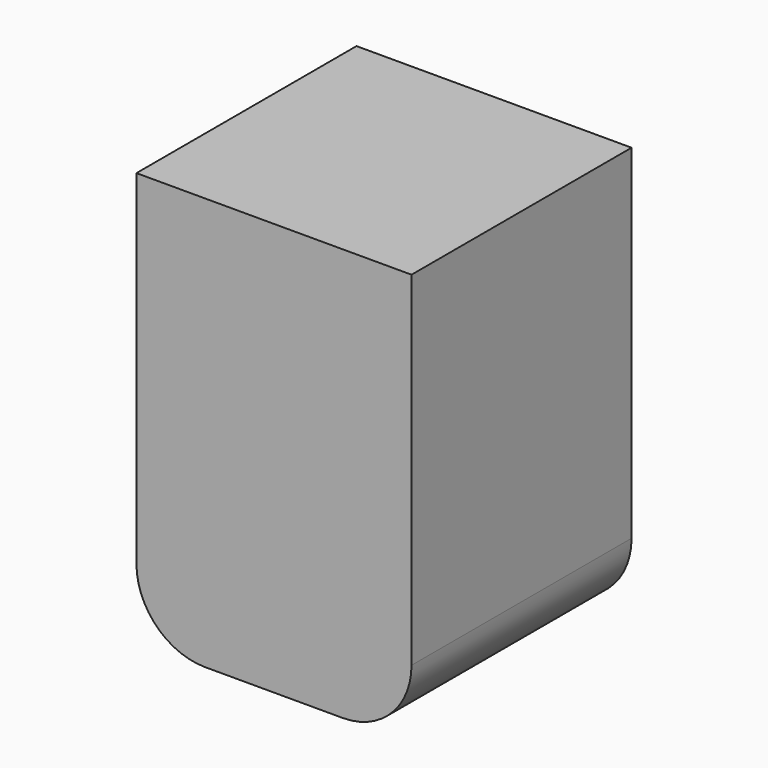
from build123d import *

# Parameters (mm, degrees)
F0_W     = 50.8
F0_H     = 76.2
F1_DEPTH = 50.8
F2_R     = 12.7


with BuildPart() as f1:
    # F0 (on Front) → F1 (new body)
    with BuildSketch(Plane.XZ):
        Rectangle(F0_W, F0_H)
    extrude(amount=F1_DEPTH)

    # F2
    f2_edges = [f1.edges().sort_by_distance(p)[0] for p in [
        (-25.4, -25.4, -38.1),
        (25.4, -25.4, -38.1),
    ]]
    fillet(f2_edges, radius=F2_R)


solid = f1.part
